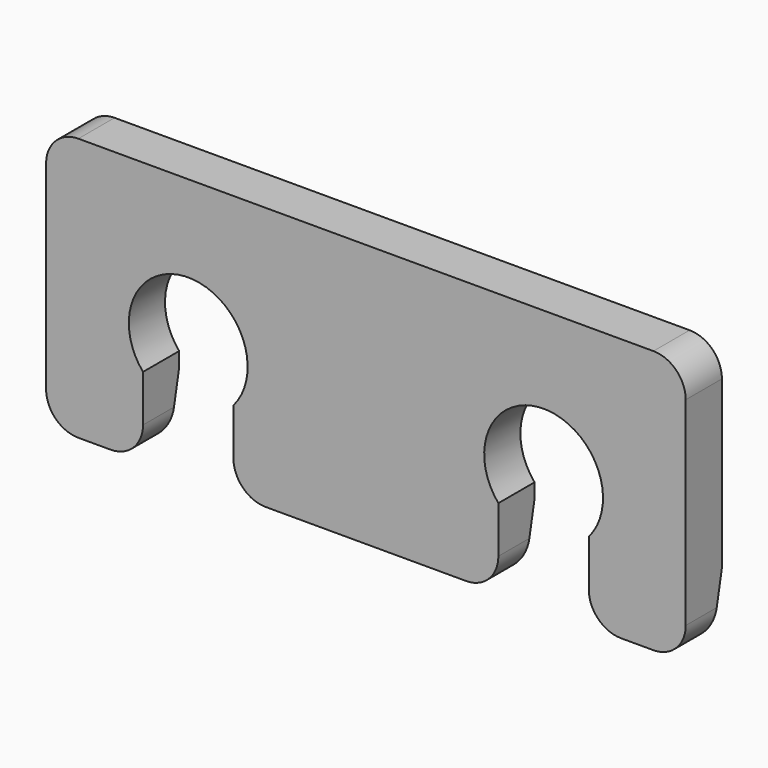
from build123d import *

# Parameters (mm, degrees)
F0_W     = 15
F0_H     = 18.1881040335
F0_W_2   = 20.5
F1_DEPTH = 7
F3_SIZE2 = 2
F3_SIZE  = 10
F4_R     = 5
F5_R     = 9.1937545257
F6_DEPTH = 7
F7_R     = 5


with BuildPart() as f1:
    # F0 (on Front) → F1 (new body)
    with BuildSketch(Plane.XZ):
        with BuildLine():
            Line((-20.5, 0), (0, 0))
            Line((0, 0), (0, 22.5676391274))
            Line((0, 22.5676391274), (-49.5, 22.5676391274))
            Line((-49.5, 22.5676391274), (-49.5, 0))
            Line((-49.5, 0), (-34.5, 0))
            ThreePointArc((-34.5, 0), (-27.5, 7), (-20.5, 0))
        make_face()
        with Locations((-42, -9.0940520167)):
            Rectangle(F0_W, F0_H)
        with Locations((-10.25, -9.0940520167)):
            Rectangle(F0_W_2, F0_H)
        with BuildLine():
            Line((0, 22.5676391274), (0, 0))
            Line((0, 0), (20.5, 0))
            ThreePointArc((20.5, 0), (27.5, 7), (34.5, 0))
            Line((34.5, 0), (49.5, 0))
            Line((49.5, 0), (49.5, 22.5676391274))
            Line((49.5, 22.5676391274), (0, 22.5676391274))
        make_face()
        with Locations((10.25, -9.0940520167)):
            Rectangle(F0_W_2, F0_H)
        with Locations((42, -9.0940520167)):
            Rectangle(F0_W, F0_H)
    extrude(amount=F1_DEPTH)

    # F3
    f3_edges = [f1.edges().sort_by_distance(p)[0] for p in [
        (0, 0, -18.188104),
        (42, 0, -18.188104),
        (-42, 0, -18.188104),
    ]]
    f3_side = f1.faces().sort_by_distance((0, 0, 3.858473))[0]
    chamfer(f3_edges, length=F3_SIZE, length2=F3_SIZE2, reference=f3_side)

    # F4
    f4_edges = [f1.edges().sort_by_distance(p)[0] for p in [
        (-20.5, -4.5, -18.188104),
        (-34.5, -4.5, -18.188104),
        (20.5, -4.5, -18.188104),
        (34.5, -4.5, -18.188104),
        (49.5, -4.5, -18.188104),
        (-49.5, -4.5, -18.188104),
    ]]
    fillet(f4_edges, radius=F4_R)

    # F5 (on Front) → F6 (cut, through all)
    with BuildSketch(Plane.XZ):
        with Locations((-27.5, 0)):
            Circle(F5_R)
        with Locations((27.5, 0)):
            Circle(F5_R)
    extrude(amount=F6_DEPTH, mode=Mode.SUBTRACT)

    # F7
    f7_edges = [f1.edges().sort_by_distance(p)[0] for p in [
        (-49.5, -3.5, 22.567639),
        (49.5, -3.5, 22.567639),
    ]]
    fillet(f7_edges, radius=F7_R)


solid = f1.part
